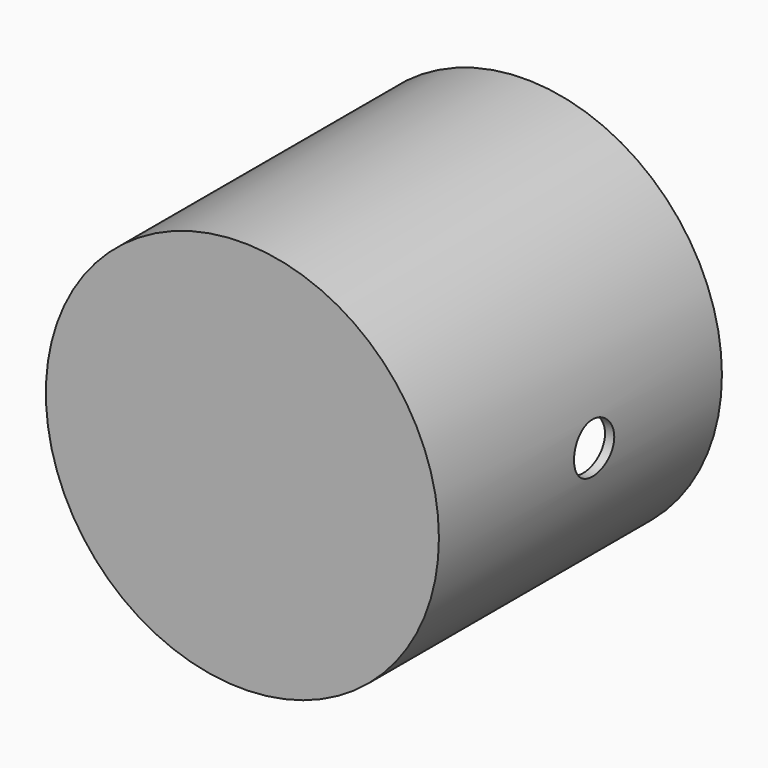
from build123d import *

# Parameters (mm, degrees)
F0_R     = 12.7
F1_DEPTH = 22.86
F2_R     = 12.102618
F3_DEPTH = 21.082
F5_DEPTH = 13.97
F6_R     = 1.6256
F7_DEPTH = 12.7


with BuildPart() as f1:
    # F0 (on Front) → F1 (new body)
    with BuildSketch(Plane.XZ):
        Circle(F0_R)
    extrude(amount=F1_DEPTH)

    # F2 (on face) → F3 (cut)
    with BuildSketch(Plane(origin=(0, 0, 0), x_dir=(-1, 0, 0), z_dir=(0, 1, 0))):
        Circle(F2_R)
    extrude(amount=-F3_DEPTH, mode=Mode.SUBTRACT)

    # F4 (on face) → F5 (join)
    with BuildSketch(Plane(origin=(0, -21.082, 0), x_dir=(-1, 0, 0), z_dir=(0, 1, 0))):
        Polygon((-1.553707, 2.682939), (-5.109707, 2.682939), (-5.109707, 0), (-5.109707, -2.682939), (-1.553707, -2.682939), (-1.553707, 0), align=None)
        Polygon((1.553707, 2.682939), (1.553707, 0), (1.553707, -2.682939), (5.109707, -2.682939), (5.109707, 0), (5.109707, 2.682939), align=None)
    extrude(amount=F5_DEPTH)

    # F6 (on Right) → F7 (cut, symmetric)
    with BuildSketch(Plane.YZ):
        with Locations((-10.320932, 0)):
            Circle(F6_R)
    extrude(amount=F7_DEPTH, both=True, mode=Mode.SUBTRACT)


solid = f1.part
